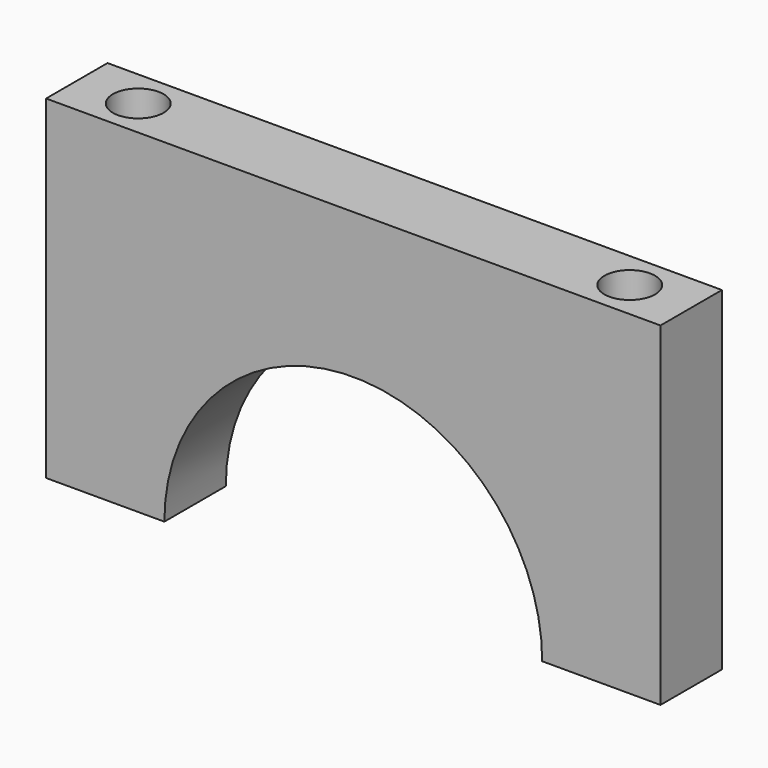
from build123d import *

# Parameters (mm, degrees)
F1_DEPTH = 10
F3_D     = 6.6


with BuildPart() as f1:
    # F0 (on Front) → F1 (new body)
    with BuildSketch(Plane.XZ):
        with BuildLine():
            Line((0, 43.5), (0, 0))
            Line((0, 0), (15.4, 0))
            ThreePointArc((15.4, 0), (40, 24.6), (64.6, 0))
            Line((64.6, 0), (80, 0))
            Line((80, 0), (80, 43.5))
            Line((80, 43.5), (0, 43.5))
        make_face()
    extrude(amount=F1_DEPTH)

    # F3 (through all)
    with Locations(Plane.XY.offset(43.5)):
        with Locations((8, -5), (72, -5)):
            Hole(F3_D / 2)


solid = f1.part
